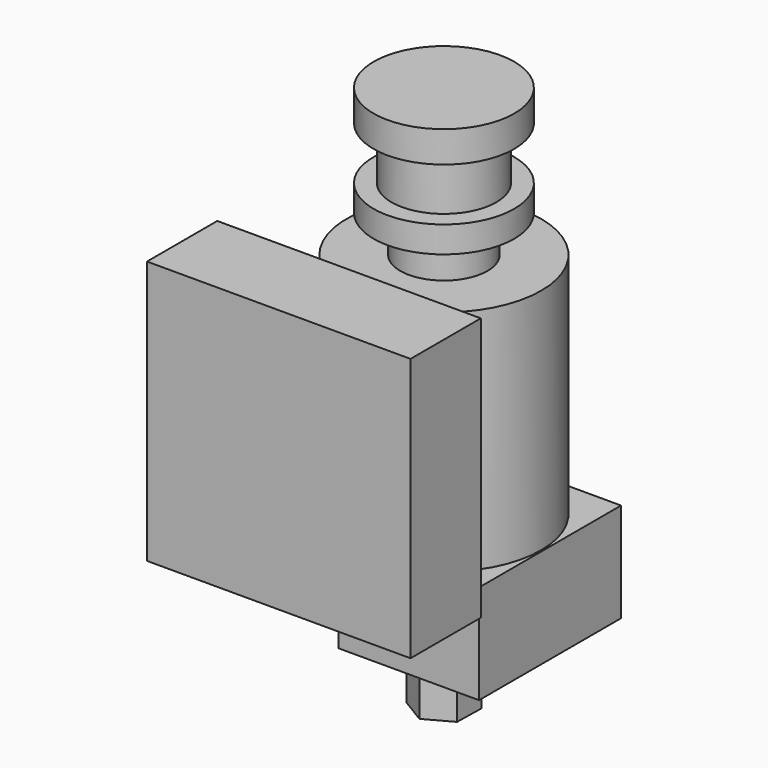
from build123d import *

# Parameters (mm, degrees)
F2_R      = 2.94
F3_DEPTH  = 7.65
F5_W      = 30
F5_H      = 30
F6_DEPTH  = 10
F7_W      = 20.2
F7_H      = 11.3
F8_DEPTH  = 8
F10_DEPTH = 5.15


with BuildPart() as f1:
    # F0 (on Front) → F1 (revolve)
    with BuildSketch(Plane.XZ):
        Polygon((8, 42.75), (0, 42.75), (0, 0), (11.075, 0), (11.075, 26), (4.9694790867, 26), (4.9694790867, 30.2), (8, 30.2), (8, 33.2), (5.965, 33.2), (5.965, 39.2), (8, 39.2), align=None)
    revolve(axis=Axis((0, 0, 21.375), (0, 0, -1)))

    # F2 (on face) → F3 (join)
    with BuildSketch(Plane(origin=(0, 0, 0), x_dir=(1, 0, 0), z_dir=(0, 0, -1))):
        Circle(F2_R)
    extrude(amount=F3_DEPTH)

    # F7 (on Right) → F8 (join, symmetric)
    with BuildSketch(Plane.YZ):
        with Locations((5.1, -8.35)):
            Rectangle(F7_W, F7_H)
    extrude(amount=F8_DEPTH, both=True)

    # F9 (on face) → F10 (join)
    with BuildSketch(Plane(origin=(0, 0, -14), x_dir=(1, 0, 0), z_dir=(0, 0, -1))):
        Polygon((-2.9029249615, -1.7600643931), (0.072797996, -3.3940389585), (2.9757229575, -1.6339745654), (2.9029249615, 1.7600643931), (-0.072797996, 3.3940389585), (-2.9757229575, 1.6339745654), align=None)
    extrude(amount=F10_DEPTH)


with BuildPart() as f6:
    # F5 (on offset) → F6 (new body)
    with BuildSketch(Plane.XZ.offset(23.5)):
        with Locations((0, 15)):
            Rectangle(F5_W, F5_H)
    extrude(amount=-F6_DEPTH)


solid = Compound([f1.part, f6.part])
